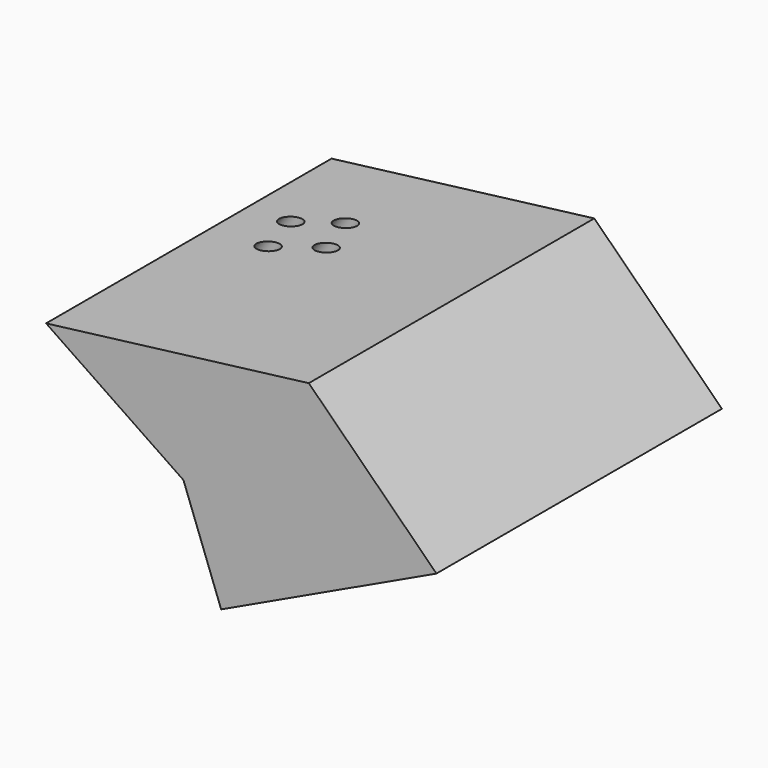
from build123d import *

# Parameters (mm, degrees)
F1_DEPTH = 127
F3_D     = 6.35


with BuildPart() as f1:
    # F0 (on Front) → F1 (new body)
    with BuildSketch(Plane.XZ):
        Polygon((-4.816888, 44.878539), (-98.325543, 33.213351), (-49.425673, 0), (-36.00774, -36.159221), (40.619049, 0), align=None)
    extrude(amount=F1_DEPTH)

    # F3 (through all)
    with Locations(Plane(origin=(-15.603241, 0, -22.972583), x_dir=(0.82723, 0, -0.561864), z_dir=(-0.561864, 0, -0.82723))):
        with Locations((-86.794615, 39.937764), (-71.20616, 49.933266), (-75.681865, 33.946708), (-82.870327, 56.49602)):
            Hole(F3_D / 2)


solid = f1.part
